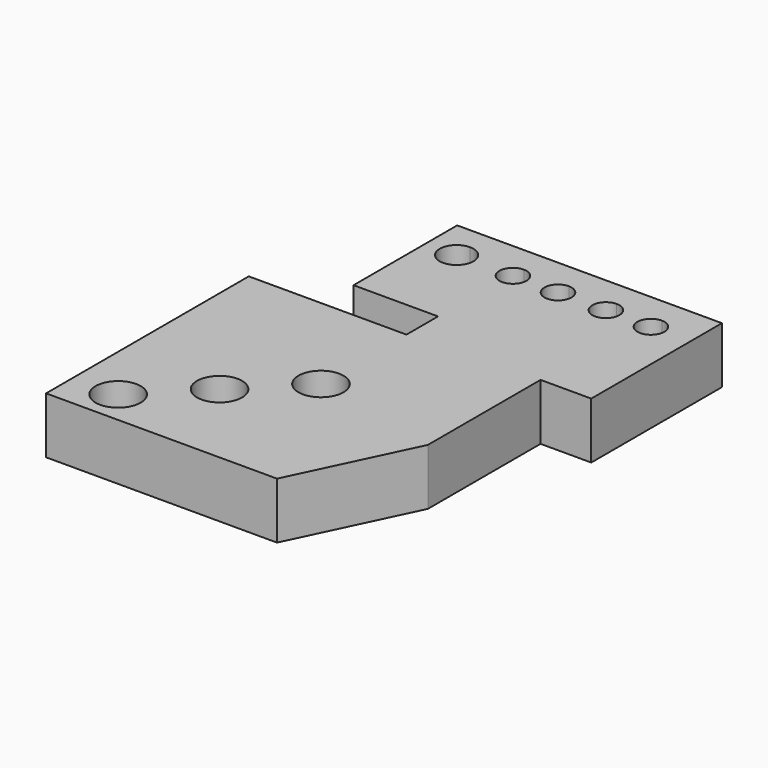
from build123d import *

# Parameters (mm, degrees)
F1_DEPTH = 25


with BuildPart() as f1:
    # F0 (on Top) → F1 (new body)
    with BuildSketch(Plane.XY):
        with BuildLine():
            ThreePointArc((18.250306, 103.623616), (16.492946, 107.866257), (12.250306, 109.623616))
            ThreePointArc((12.250306, 109.623616), (8.007665, 99.380976), (18.250306, 103.623616))
        make_face()
        with BuildLine():
            ThreePointArc((-1.749694, 103.623616), (-3.507054, 107.866257), (-7.749694, 109.623616))
            ThreePointArc((-7.749694, 109.623616), (-11.992335, 99.380976), (-1.749694, 103.623616))
        make_face()
        with BuildLine():
            ThreePointArc((-22.999694, 103.623616), (-24.757054, 107.866257), (-28.999694, 109.623616))
            ThreePointArc((-28.999694, 109.623616), (-33.242335, 99.380976), (-22.999694, 103.623616))
        make_face()
        with BuildLine():
            ThreePointArc((-42.999694, 103.623616), (-44.757054, 107.866257), (-48.999694, 109.623616))
            ThreePointArc((-48.999694, 109.623616), (-53.242335, 99.380976), (-42.999694, 103.623616))
        make_face()
        with BuildLine():
            ThreePointArc((-66.499694, 103.623616), (-68.696394, 108.926917), (-73.999694, 111.123616))
            ThreePointArc((-73.999694, 111.123616), (-79.302995, 98.320316), (-66.499694, 103.623616))
        make_face()
        with BuildLine():
            ThreePointArc((-40.249694, -1.320904), (-50.249694, 8.679096), (-60.249694, -1.320904))
            ThreePointArc((-60.249694, -1.320904), (-50.249694, -11.320904), (-40.249694, -1.320904))
        make_face()
        with BuildLine():
            ThreePointArc((-65.249694, -26.320904), (-75.249694, -16.320904), (-85.249694, -26.320904))
            ThreePointArc((-85.249694, -26.320904), (-75.249694, -36.320904), (-65.249694, -26.320904))
        make_face()
        with BuildLine():
            ThreePointArc((-90.249694, -51.320904), (-100.249694, -41.320904), (-110.249694, -51.320904))
            ThreePointArc((-110.249694, -51.320904), (-100.249694, -61.320904), (-90.249694, -51.320904))
        make_face()
        Polygon((-120.249694, -51.320904), (-120.249694, -66.320904), (-100.249694, -66.320904), (-75.249694, -66.320904), (-50.249694, -66.320904), (-17.749694, -66.320904), (7.250306, -13.876384), (7.250306, 48.623616), (29.750306, 48.623616), (29.750306, 103.623616), (29.750306, 121.123616), (12.250306, 121.123616), (-7.749694, 121.123616), (-28.999694, 121.123616), (-48.999694, 121.123616), (-73.999694, 121.123616), (-87.749694, 121.123616), (-87.749694, 63.623616), (-50.249694, 63.623616), (-50.249694, 46.123616), (-120.249694, 46.123616), (-120.249694, -1.320904), (-120.249694, -26.320904), align=None)
        with BuildLine():
            ThreePointArc((-90.249694, -51.320904), (-100.249694, -61.320904), (-110.249694, -51.320904))
            ThreePointArc((-110.249694, -51.320904), (-100.249694, -41.320904), (-90.249694, -51.320904))
        make_face(mode=Mode.SUBTRACT)
        with BuildLine():
            ThreePointArc((-65.249694, -26.320904), (-75.249694, -36.320904), (-85.249694, -26.320904))
            ThreePointArc((-85.249694, -26.320904), (-75.249694, -16.320904), (-65.249694, -26.320904))
        make_face(mode=Mode.SUBTRACT)
        with BuildLine():
            ThreePointArc((-40.249694, -1.320904), (-50.249694, -11.320904), (-60.249694, -1.320904))
            ThreePointArc((-60.249694, -1.320904), (-50.249694, 8.679096), (-40.249694, -1.320904))
        make_face(mode=Mode.SUBTRACT)
        with BuildLine():
            ThreePointArc((-66.499694, 103.623616), (-79.302995, 98.320316), (-73.999694, 111.123616))
            ThreePointArc((-73.999694, 111.123616), (-68.696394, 108.926917), (-66.499694, 103.623616))
        make_face(mode=Mode.SUBTRACT)
        with BuildLine():
            ThreePointArc((-42.999694, 103.623616), (-53.242335, 99.380976), (-48.999694, 109.623616))
            ThreePointArc((-48.999694, 109.623616), (-44.757054, 107.866257), (-42.999694, 103.623616))
        make_face(mode=Mode.SUBTRACT)
        with BuildLine():
            ThreePointArc((-22.999694, 103.623616), (-33.242335, 99.380976), (-28.999694, 109.623616))
            ThreePointArc((-28.999694, 109.623616), (-24.757054, 107.866257), (-22.999694, 103.623616))
        make_face(mode=Mode.SUBTRACT)
        with BuildLine():
            ThreePointArc((-1.749694, 103.623616), (-11.992335, 99.380976), (-7.749694, 109.623616))
            ThreePointArc((-7.749694, 109.623616), (-3.507054, 107.866257), (-1.749694, 103.623616))
        make_face(mode=Mode.SUBTRACT)
        with BuildLine():
            ThreePointArc((18.250306, 103.623616), (8.007665, 99.380976), (12.250306, 109.623616))
            ThreePointArc((12.250306, 109.623616), (16.492946, 107.866257), (18.250306, 103.623616))
        make_face(mode=Mode.SUBTRACT)
    extrude(amount=F1_DEPTH)


solid = f1.part
